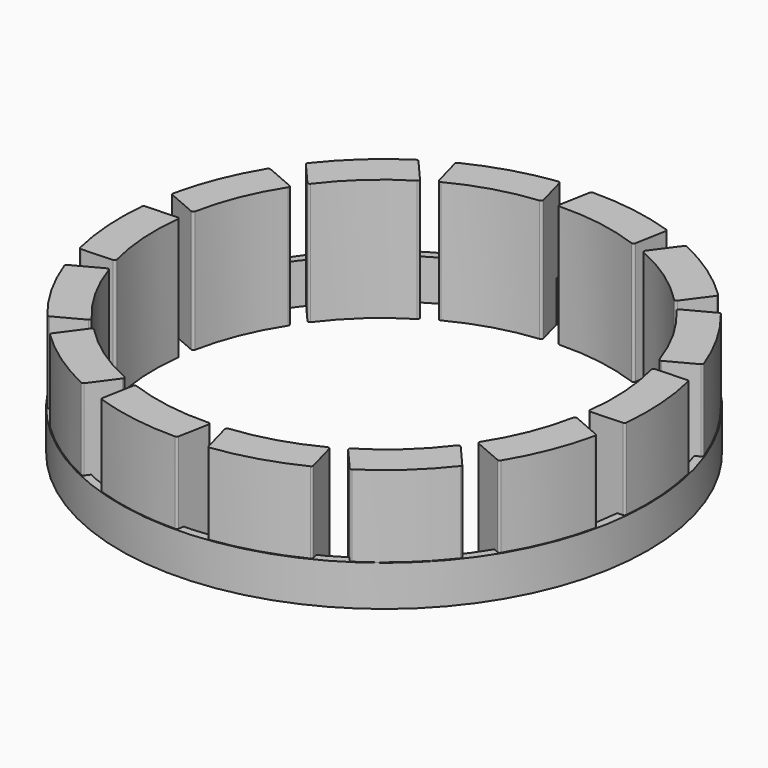
from build123d import *

# Parameters (mm, degrees)
F2_DEPTH = 6
F0_R     = 13.000683
F0_R_2   = 12.612326
F3_DEPTH = 2


with BuildPart() as f2:
    # F1 (on face) → F2 (new body)
    with BuildSketch(Plane.XY):
        with BuildLine():
            ThreePointArc((1.58078, -12.773819), (1.621797, -12.830792), (1.690159, -12.846763))
            ThreePointArc((1.690159, -12.846763), (3.736187, -12.407581), (5.682606, -11.639096))
            ThreePointArc((5.682606, -11.639096), (5.729523, -11.590519), (5.734861, -11.523194))
            Line((5.734861, -11.523194), (5.333326, -10.045546))
            ThreePointArc((5.333326, -10.045546), (5.276927, -9.980161), (5.190628, -9.983079))
            ThreePointArc((5.190628, -9.983079), (3.281956, -10.756284), (1.261344, -11.153779))
            ThreePointArc((1.261344, -11.153779), (1.188871, -11.196556), (1.174718, -11.279513))
            Line((1.174718, -11.279513), (1.58078, -12.773819))
        make_face()
        with BuildLine():
            ThreePointArc((-4.118119, -12.194688), (-4.105883, -12.263816), (-4.051221, -12.307866))
            ThreePointArc((-4.051221, -12.307866), (-2.017259, -12.799915), (0.069836, -12.952054))
            ThreePointArc((0.069836, -12.952054), (0.133185, -12.928643), (0.167205, -12.870302))
            Line((0.167205, -12.870302), (0.446562, -11.364767))
            ThreePointArc((0.446562, -11.364767), (0.424117, -11.281387), (0.345098, -11.246573))
            ThreePointArc((0.345098, -11.246573), (-1.710037, -11.115064), (-3.703012, -10.596484))
            ThreePointArc((-3.703012, -10.596484), (-3.786868, -10.60358), (-3.835613, -10.672181))
            Line((-3.835613, -10.672181), (-4.118119, -12.194688))
        make_face()
        with BuildLine():
            ThreePointArc((-9.001374, -9.200249), (-9.020343, -9.26784), (-8.990207, -9.331245))
            ThreePointArc((-8.990207, -9.331245), (-7.371163, -10.657069), (-5.556765, -11.699698))
            ThreePointArc((-5.556765, -11.699698), (-5.489533, -11.706092), (-5.433568, -11.668289))
            Line((-5.433568, -11.668289), (-4.528649, -10.433058))
            ThreePointArc((-4.528649, -10.433058), (-4.512694, -10.348196), (-4.568782, -10.282545))
            ThreePointArc((-4.568782, -10.282545), (-6.363335, -9.272369), (-7.93394, -7.940426))
            ThreePointArc((-7.93394, -7.940426), (-8.012571, -7.910435), (-8.086253, -7.951093))
            Line((-8.086253, -7.951093), (-9.001374, -9.200249))
        make_face()
        with BuildLine():
            ThreePointArc((6.966586, -10.822939), (7.028261, -10.856473), (7.096782, -10.841201))
            ThreePointArc((7.096782, -10.841201), (8.749636, -9.557773), (10.169865, -8.020873))
            ThreePointArc((10.169865, -8.020873), (10.19106, -7.956749), (10.166658, -7.893776))
            Line((10.166658, -7.893776), (9.16376, -6.73668))
            ThreePointArc((9.16376, -6.73668), (9.084576, -6.702242), (9.00809, -6.742315))
            ThreePointArc((9.00809, -6.742315), (7.623916, -8.267089), (5.975875, -9.501931))
            ThreePointArc((5.975875, -9.501931), (5.929139, -9.571916), (5.952382, -9.652799))
            Line((5.952382, -9.652799), (6.966586, -10.822939))
        make_face()
        with BuildLine():
            ThreePointArc((10.972574, -6.728443), (11.042692, -6.731896), (11.097801, -6.688406))
            ThreePointArc((11.097801, -6.688406), (12.030112, -4.814931), (12.642859, -2.814018))
            ThreePointArc((12.642859, -2.814018), (12.634132, -2.747048), (12.584823, -2.700899))
            Line((12.584823, -2.700899), (11.179198, -2.093533))
            ThreePointArc((11.179198, -2.093533), (11.092914, -2.096861), (11.041389, -2.166152))
            ThreePointArc((11.041389, -2.166152), (10.455867, -4.140497), (9.50681, -5.968109))
            ThreePointArc((9.50681, -5.968109), (9.495069, -6.051442), (9.551103, -6.11423))
            Line((9.551103, -6.11423), (10.972574, -6.728443))
        make_face()
        with BuildLine():
            ThreePointArc((12.805309, -1.301296), (12.869982, -1.273985), (12.900764, -1.21089))
            ThreePointArc((12.900764, -1.21089), (12.927877, 0.881567), (12.611779, 2.950188))
            ThreePointArc((12.611779, 2.950188), (12.574859, 3.006739), (12.51041, 3.026924))
            Line((12.51041, 3.026924), (10.980459, 2.964265))
            ThreePointArc((10.980459, 2.964265), (10.904164, 2.923829), (10.887806, 2.839044))
            ThreePointArc((10.887806, 2.839044), (11.216905, 0.806172), (11.154806, -1.25223))
            ThreePointArc((11.154806, -1.25223), (11.180383, -1.332405), (11.258111, -1.364662))
            Line((11.258111, -1.364662), (12.805309, -1.301296))
        make_face()
        with BuildLine():
            ThreePointArc((12.101796, 4.383588), (12.148214, 4.436255), (12.148572, 4.506457))
            ThreePointArc((12.148572, 4.506457), (11.265117, 6.40346), (10.082781, 8.130073))
            ThreePointArc((10.082781, 8.130073), (10.024981, 8.165005), (9.958157, 8.155228))
            Line((9.958157, 8.155228), (8.606906, 7.434953))
            ThreePointArc((8.606906, 7.434953), (8.555711, 7.365418), (8.577759, 7.281932))
            ThreePointArc((8.577759, 7.281932), (9.756297, 5.593168), (10.593455, 3.711669))
            ThreePointArc((10.593455, 3.711669), (10.651286, 3.650531), (10.735313, 3.655193))
            Line((10.735313, 3.655193), (12.101796, 4.383588))
        make_face()
        with BuildLine():
            ThreePointArc((9.001374, 9.200249), (9.020343, 9.26784), (8.990207, 9.331245))
            ThreePointArc((8.990207, 9.331245), (7.371163, 10.657069), (5.556765, 11.699698))
            ThreePointArc((5.556765, 11.699698), (5.489533, 11.706092), (5.433568, 11.668289))
            Line((5.433568, 11.668289), (4.528649, 10.433058))
            ThreePointArc((4.528649, 10.433058), (4.512694, 10.348196), (4.568782, 10.282545))
            ThreePointArc((4.568782, 10.282545), (6.363335, 9.272369), (7.93394, 7.940426))
            ThreePointArc((7.93394, 7.940426), (8.012571, 7.910435), (8.086253, 7.951093))
            Line((8.086253, 7.951093), (9.001374, 9.200249))
        make_face()
        with BuildLine():
            ThreePointArc((4.118119, 12.194688), (4.105883, 12.263816), (4.051221, 12.307866))
            ThreePointArc((4.051221, 12.307866), (2.017259, 12.799915), (-0.069836, 12.952054))
            ThreePointArc((-0.069836, 12.952054), (-0.133185, 12.928643), (-0.167205, 12.870302))
            Line((-0.167205, 12.870302), (-0.446562, 11.364767))
            ThreePointArc((-0.446562, 11.364767), (-0.424117, 11.281387), (-0.345098, 11.246573))
            ThreePointArc((-0.345098, 11.246573), (1.710037, 11.115064), (3.703012, 10.596484))
            ThreePointArc((3.703012, 10.596484), (3.786868, 10.60358), (3.835613, 10.672181))
            Line((3.835613, 10.672181), (4.118119, 12.194688))
        make_face()
        with BuildLine():
            ThreePointArc((-1.58078, 12.773819), (-1.621797, 12.830792), (-1.690159, 12.846763))
            ThreePointArc((-1.690159, 12.846763), (-3.736187, 12.407581), (-5.682606, 11.639096))
            ThreePointArc((-5.682606, 11.639096), (-5.729523, 11.590519), (-5.734861, 11.523194))
            Line((-5.734861, 11.523194), (-5.333326, 10.045546))
            ThreePointArc((-5.333326, 10.045546), (-5.276927, 9.980161), (-5.190628, 9.983079))
            ThreePointArc((-5.190628, 9.983079), (-3.281956, 10.756284), (-1.261344, 11.153779))
            ThreePointArc((-1.261344, 11.153779), (-1.188871, 11.196556), (-1.174718, 11.279513))
            Line((-1.174718, 11.279513), (-1.58078, 12.773819))
        make_face()
        with BuildLine():
            ThreePointArc((-6.966586, 10.822939), (-7.028261, 10.856473), (-7.096782, 10.841201))
            ThreePointArc((-7.096782, 10.841201), (-8.749636, 9.557773), (-10.169865, 8.020873))
            ThreePointArc((-10.169865, 8.020873), (-10.19106, 7.956749), (-10.166658, 7.893776))
            Line((-10.166658, 7.893776), (-9.16376, 6.73668))
            ThreePointArc((-9.16376, 6.73668), (-9.084576, 6.702242), (-9.00809, 6.742315))
            ThreePointArc((-9.00809, 6.742315), (-7.623916, 8.267089), (-5.975875, 9.501931))
            ThreePointArc((-5.975875, 9.501931), (-5.929139, 9.571916), (-5.952382, 9.652799))
            Line((-5.952382, 9.652799), (-6.966586, 10.822939))
        make_face()
        with BuildLine():
            ThreePointArc((-10.972574, 6.728443), (-11.042692, 6.731896), (-11.097801, 6.688406))
            ThreePointArc((-11.097801, 6.688406), (-12.030112, 4.814931), (-12.642859, 2.814018))
            ThreePointArc((-12.642859, 2.814018), (-12.634132, 2.747048), (-12.584823, 2.700899))
            Line((-12.584823, 2.700899), (-11.179198, 2.093533))
            ThreePointArc((-11.179198, 2.093533), (-11.092914, 2.096861), (-11.041389, 2.166152))
            ThreePointArc((-11.041389, 2.166152), (-10.455867, 4.140497), (-9.50681, 5.968109))
            ThreePointArc((-9.50681, 5.968109), (-9.495069, 6.051442), (-9.551103, 6.11423))
            Line((-9.551103, 6.11423), (-10.972574, 6.728443))
        make_face()
        with BuildLine():
            ThreePointArc((-12.805309, 1.301296), (-12.869982, 1.273985), (-12.900764, 1.21089))
            ThreePointArc((-12.900764, 1.21089), (-12.927877, -0.881567), (-12.611779, -2.950188))
            ThreePointArc((-12.611779, -2.950188), (-12.574859, -3.006739), (-12.51041, -3.026924))
            Line((-12.51041, -3.026924), (-10.980459, -2.964265))
            ThreePointArc((-10.980459, -2.964265), (-10.904164, -2.923829), (-10.887806, -2.839044))
            ThreePointArc((-10.887806, -2.839044), (-11.216905, -0.806172), (-11.154806, 1.25223))
            ThreePointArc((-11.154806, 1.25223), (-11.180383, 1.332405), (-11.258111, 1.364662))
            Line((-11.258111, 1.364662), (-12.805309, 1.301296))
        make_face()
        with BuildLine():
            ThreePointArc((-12.101796, -4.383588), (-12.148214, -4.436255), (-12.148572, -4.506457))
            ThreePointArc((-12.148572, -4.506457), (-11.265117, -6.40346), (-10.082781, -8.130073))
            ThreePointArc((-10.082781, -8.130073), (-10.024981, -8.165005), (-9.958157, -8.155228))
            Line((-9.958157, -8.155228), (-8.606906, -7.434953))
            ThreePointArc((-8.606906, -7.434953), (-8.555711, -7.365418), (-8.577759, -7.281932))
            ThreePointArc((-8.577759, -7.281932), (-9.756297, -5.593168), (-10.593455, -3.711669))
            ThreePointArc((-10.593455, -3.711669), (-10.651286, -3.650531), (-10.735313, -3.655193))
            Line((-10.735313, -3.655193), (-12.101796, -4.383588))
        make_face()
    extrude(amount=F2_DEPTH)


with BuildPart() as f3:
    # F0 (on Top) → F3 (new body)
    with BuildSketch(Plane.XY):
        Circle(F0_R)
        Circle(F0_R_2, mode=Mode.SUBTRACT)
    extrude(amount=F3_DEPTH)


solid = Compound([f2.part, f3.part])
